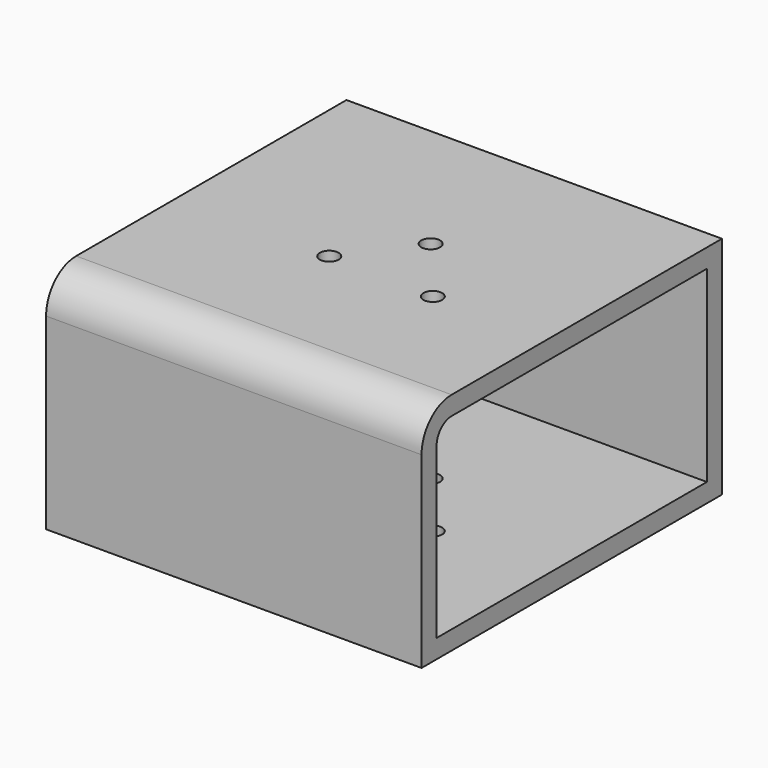
from build123d import *

# Parameters (mm, degrees)
F0_W     = 127
F0_H     = 127
F1_DEPTH = 76.2
F2_R     = 12.7
F3_T     = -6.35
F5_D     = 6.35


with BuildPart() as f1:
    # F0 (on Top) → F1 (new body)
    with BuildSketch(Plane.XY):
        with Locations((63.5, 63.5)):
            Rectangle(F0_W, F0_H)
    extrude(amount=F1_DEPTH)

    # F2
    f2_edges = [f1.edges().sort_by_distance(p)[0] for p in [
        (63.5, 0, 76.2),
    ]]
    fillet(f2_edges, radius=F2_R)

    # F3
    f3_openings = [f1.faces().sort_by_distance(p)[0] for p in [
        (127, 63.717753, 37.973421),
    ]]
    offset(amount=F3_T, openings=f3_openings)

    # F5 (through all)
    with Locations(Plane.XY.offset(76.2)):
        with Locations((52.258465, 54.398425), (68.767309, 76.650865), (88.000998, 53.506445)):
            Hole(F5_D / 2)


solid = f1.part
